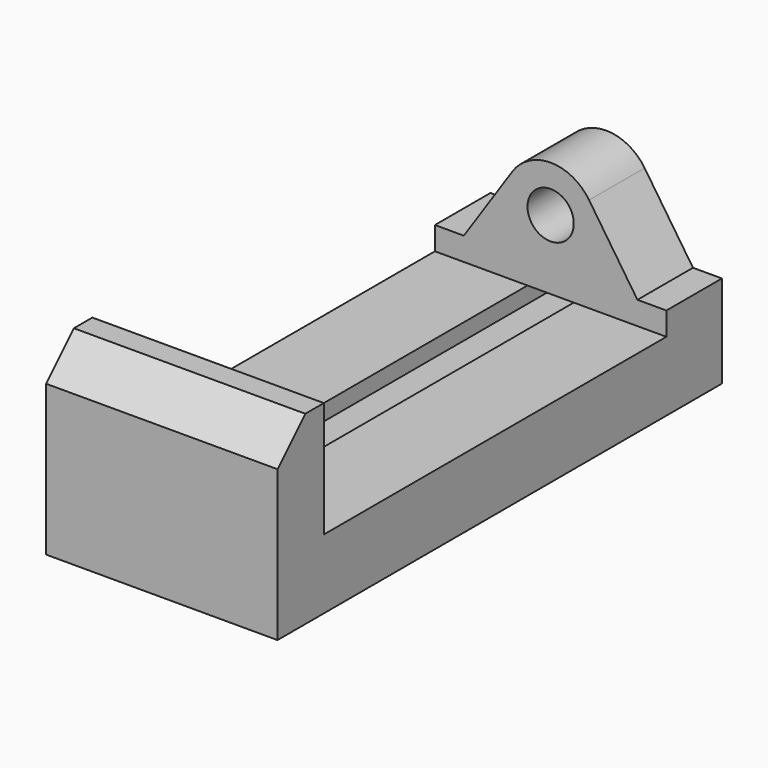
from build123d import *

# Parameters (mm, degrees)
F0_W     = 31.75
F0_H     = 101.6
F1_DEPTH = 127
F2_SIZE  = 19.05
F4_DEPTH = 234.95
F5_R     = 12.7
F6_DEPTH = 38.1


with BuildPart() as f1:
    # F0 (on Right) → F1 (new body)
    with BuildSketch(Plane.YZ):
        with Locations((15.875, 50.8)):
            Rectangle(F0_W, F0_H)
    extrude(amount=F1_DEPTH)

    # F2
    f2_edges = [f1.edges().sort_by_distance(p)[0] for p in [
        (63.5, 0, 101.6),
    ]]
    chamfer(f2_edges, length=F2_SIZE)

    # F3 (on face) → F4 (join)
    with BuildSketch(Plane(origin=(0, 31.75, 0), x_dir=(-1, 0, 0), z_dir=(0, 1, 0))):
        Polygon((-127, 0), (-76.2, 0), (-76.2, 16.51), (-95.25, 16.51), (-95.25, 29.21), (-76.2, 29.21), (-76.2, 38.1), (-127, 38.1), align=None)
        Polygon((-50.8, 0), (0, 0), (0, 38.1), (-50.8, 38.1), (-50.8, 29.21), (-31.75, 29.21), (-31.75, 16.51), (-50.8, 16.51), align=None)
    extrude(amount=F4_DEPTH)

    # F5 (on face) → F6 (join)
    with BuildSketch(Plane(origin=(0, 266.7, 0), x_dir=(-1, 0, 0), z_dir=(0, 1, 0))):
        with BuildLine():
            Line((-50.8, 0), (0, 0))
            Line((0, 0), (0, 50.8))
            Line((0, 50.8), (-15.875, 50.8))
            Line((-15.875, 50.8), (-42.406574, 90.350173))
            ThreePointArc((-42.406574, 90.350173), (-63.5, 101.6), (-84.593426, 90.350173))
            Line((-84.593426, 90.350173), (-111.125, 50.8))
            Line((-111.125, 50.8), (-127, 50.8))
            Line((-127, 50.8), (-127, 0))
            Line((-127, 0), (-76.2, 0))
            Line((-76.2, 0), (-76.2, 16.51))
            Line((-76.2, 16.51), (-95.25, 16.51))
            Line((-95.25, 16.51), (-95.25, 29.21))
            Line((-95.25, 29.21), (-76.2, 29.21))
            Line((-76.2, 29.21), (-76.2, 38.1))
            Line((-76.2, 38.1), (-50.8, 38.1))
            Line((-50.8, 38.1), (-50.8, 29.21))
            Line((-50.8, 29.21), (-31.75, 29.21))
            Line((-31.75, 29.21), (-31.75, 16.51))
            Line((-31.75, 16.51), (-50.8, 16.51))
            Line((-50.8, 16.51), (-50.8, 0))
        make_face()
        with Locations((-63.5, 76.2)):
            Circle(F5_R, mode=Mode.SUBTRACT)
    extrude(amount=F6_DEPTH)


solid = f1.part
